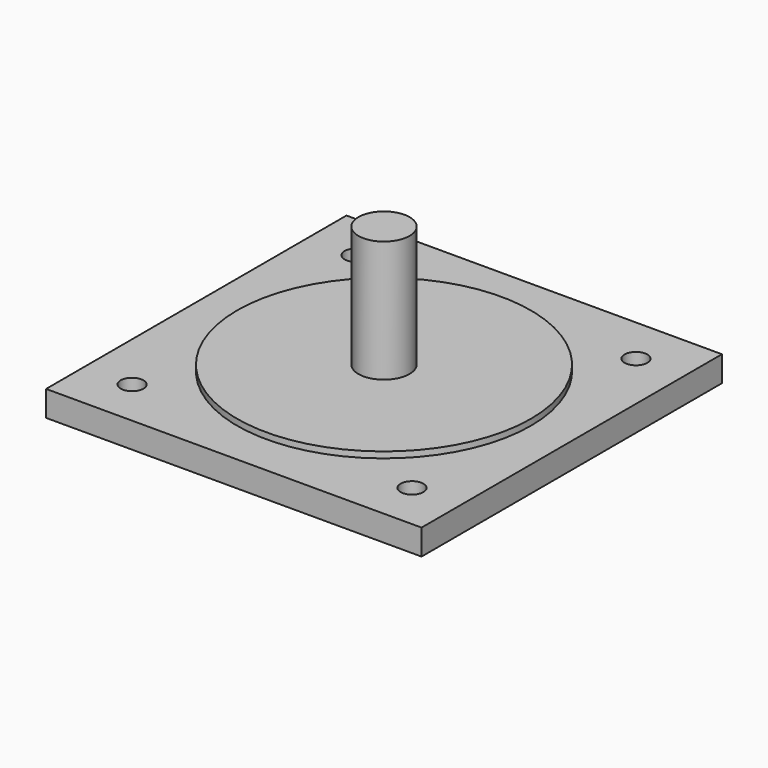
from build123d import *

# Parameters (mm, degrees)
F0_W     = 93.345
F0_H     = 93.345
F1_DEPTH = 6.35
F2_R     = 36.5125
F3_DEPTH = 1.524
F4_R     = 6.35
F5_DEPTH = 31.75
F6_R     = 2.8321
F7_DEPTH = 6.35


with BuildPart() as f1:
    # F0 (on Top) → F1 (new body)
    with BuildSketch(Plane.XY):
        Rectangle(F0_W, F0_H)
    extrude(amount=F1_DEPTH)

    # F2 (on face) → F3 (join)
    with BuildSketch(Plane.XY.offset(6.35)):
        Circle(F2_R)
    extrude(amount=F3_DEPTH)

    # F4 (on face) → F5 (join)
    with BuildSketch(Plane.XY.offset(6.35)):
        Circle(F4_R)
    extrude(amount=F5_DEPTH)

    # F6 (on face) → F7 (cut, through all)
    with BuildSketch(Plane.XY.offset(6.35)):
        with Locations((-34.798, 34.798)):
            Circle(F6_R)
        with Locations((34.798, 34.798)):
            Circle(F6_R)
        with Locations((34.798, -34.798)):
            Circle(F6_R)
        with Locations((-34.798, -34.798)):
            Circle(F6_R)
    extrude(amount=-F7_DEPTH, mode=Mode.SUBTRACT)


solid = f1.part
